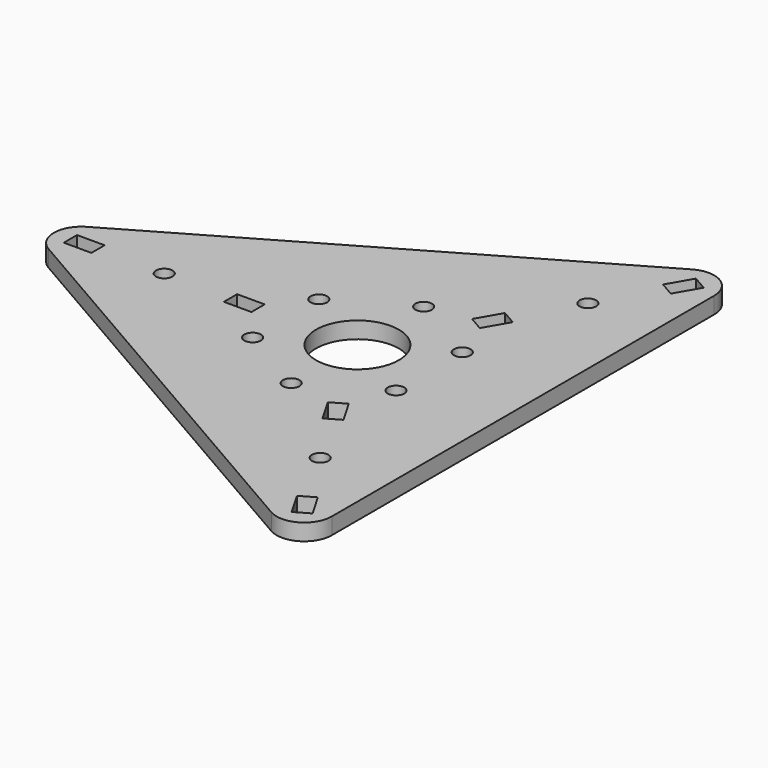
from build123d import *

# Parameters (mm, degrees)
F0_W     = 5
F0_H     = 3
F0_R     = 1.5
F0_R_2   = 7.5
F1_DEPTH = 1.5


with BuildPart() as f1:
    # F0 (on Top) → F1 (new body, symmetric)
    with BuildSketch(Plane.XY):
        with BuildLine():
            Line((22.5, 47.6313972081), (-52.5, 4.3301270189))
            ThreePointArc((-52.5, 4.3301270189), (-55, 0), (-52.5, -4.3301270189))
            Line((-52.5, -4.3301270189), (22.5, -47.6313972081))
            ThreePointArc((22.5, -47.6313972081), (27.5, -47.6313972081), (30, -43.3012701892))
            Line((30, -43.3012701892), (30, 43.3012701892))
            ThreePointArc((30, 43.3012701892), (27.5, 47.6313972081), (22.5, 47.6313972081))
        make_face()
        with Locations((-49.5, 0)):
            Rectangle(F0_W, F0_H, mode=Mode.SUBTRACT)
        with Locations((-35, 0)):
            Circle(F0_R, mode=Mode.SUBTRACT)
        with Locations((-12.9903810568, -7.5)):
            Circle(F0_R, mode=Mode.SUBTRACT)
        with Locations((-20.5, 0)):
            Rectangle(F0_W, F0_H, mode=Mode.SUBTRACT)
        Polygon((22.2009618943, -41.4531939779), (24.7990381057, -39.9531939779), (27.2990381057, -44.2833209968), (24.7009618943, -45.7833209968), align=None, mode=Mode.SUBTRACT)
        with Locations((17.5, -30.3108891325)):
            Circle(F0_R, mode=Mode.SUBTRACT)
        with Locations((0, -15)):
            Circle(F0_R, mode=Mode.SUBTRACT)
        Circle(F0_R_2, mode=Mode.SUBTRACT)
        Polygon((10.2009618943, -20.668584287), (7.7009618943, -16.3384572681), (10.2990381057, -14.8384572681), (12.7990381057, -19.168584287), align=None, mode=Mode.SUBTRACT)
        with Locations((12.9903810568, -7.5)):
            Circle(F0_R, mode=Mode.SUBTRACT)
        with Locations((-12.9903810568, 7.5)):
            Circle(F0_R, mode=Mode.SUBTRACT)
        with Locations((0, 15)):
            Circle(F0_R, mode=Mode.SUBTRACT)
        with Locations((12.9903810568, 7.5)):
            Circle(F0_R, mode=Mode.SUBTRACT)
        Polygon((12.7990381057, 19.168584287), (10.2990381057, 14.8384572681), (7.7009618943, 16.3384572681), (10.2009618943, 20.668584287), align=None, mode=Mode.SUBTRACT)
        with Locations((17.5, 30.3108891325)):
            Circle(F0_R, mode=Mode.SUBTRACT)
        Polygon((24.7990381057, 39.9531939779), (22.2009618943, 41.4531939779), (24.7009618943, 45.7833209968), (27.2990381057, 44.2833209968), align=None, mode=Mode.SUBTRACT)
    extrude(amount=F1_DEPTH, both=True)


solid = f1.part
